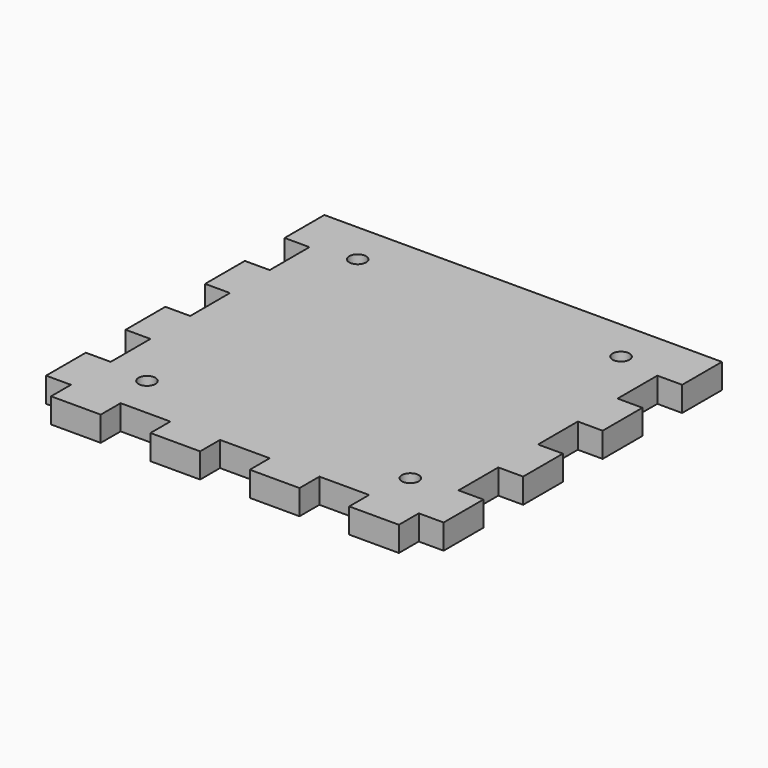
from build123d import *

# Parameters (mm, degrees)
F0_W     = 70
F0_H     = 70
F1_DEPTH = 2.5
F2_W     = 5
F2_H     = 10
F3_DEPTH = 5
F4_W     = 10
F4_H     = 5
F5_DEPTH = 5
F7_D     = 3.4


with BuildPart() as f1:
    # F0 (on Top) → F1 (new body, symmetric)
    with BuildSketch(Plane.XY):
        Rectangle(F0_W, F0_H)
    extrude(amount=F1_DEPTH, both=True)

    # F2 (on face) → F3 (join, through all)
    with BuildSketch(Plane(origin=(0, 0, -2.5), x_dir=(1, 0, 0), z_dir=(0, 0, -1))):
        with Locations((-37.5, -30)):
            Rectangle(F2_W, F2_H)
        with Locations((37.5, -30)):
            Rectangle(F2_W, F2_H)
        with Locations((37.5, -10)):
            Rectangle(F2_W, F2_H)
        with Locations((-37.5, -10)):
            Rectangle(F2_W, F2_H)
        with Locations((37.5, 10)):
            Rectangle(F2_W, F2_H)
        with Locations((-37.5, 10)):
            Rectangle(F2_W, F2_H)
        with Locations((37.5, 30)):
            Rectangle(F2_W, F2_H)
        with Locations((-37.5, 30)):
            Rectangle(F2_W, F2_H)
    extrude(amount=-F3_DEPTH)

    # F4 (on face) → F5 (join, through all)
    with BuildSketch(Plane(origin=(0, 0, -2.5), x_dir=(1, 0, 0), z_dir=(0, 0, -1))):
        with Locations((-30, 37.5)):
            Rectangle(F4_W, F4_H)
        with Locations((-10, 37.5)):
            Rectangle(F4_W, F4_H)
        with Locations((10, 37.5)):
            Rectangle(F4_W, F4_H)
        with Locations((30, 37.5)):
            Rectangle(F4_W, F4_H)
    extrude(amount=-F5_DEPTH)

    # F7 (through all)
    with Locations(Plane(origin=(0, 0, -2.5), x_dir=(1, 0, 0), z_dir=(0, 0, -1))):
        with Locations((-26.5, 26.5), (26.5, 26.5), (26.5, -26.5), (-26.5, -26.5)):
            Hole(F7_D / 2)


solid = f1.part
